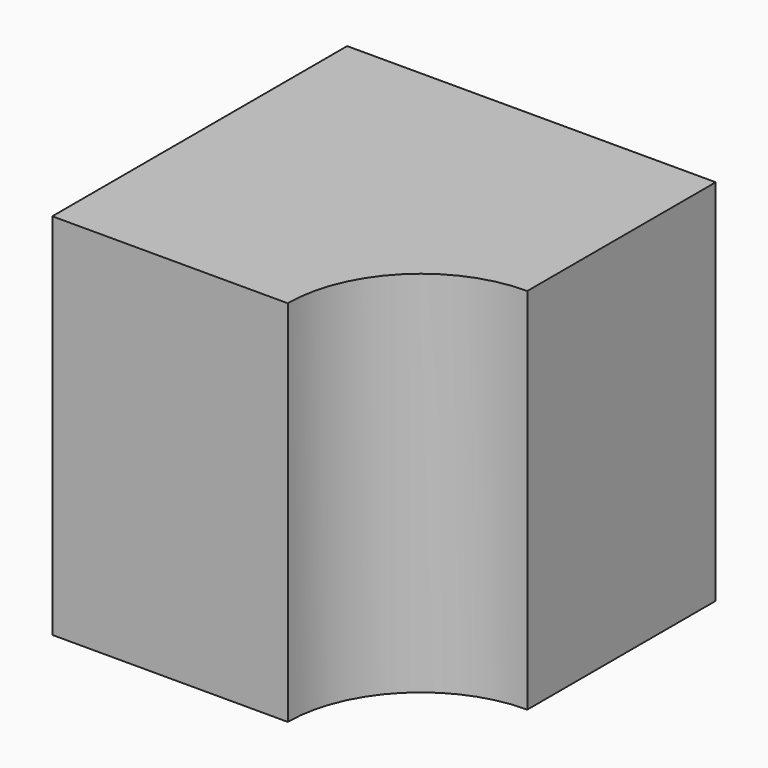
from build123d import *

# Parameters (mm, degrees)
F1_DEPTH = 2.778125


with BuildPart() as f1:
    # F0 (on Top) → F1 (new body)
    with BuildSketch(Plane.XY):
        with BuildLine():
            Line((-2.778125, 0), (-1.0033, 0))
            ThreePointArc((-1.0033, 0), (-0.70944, 0.70944), (0, 1.0033))
            Line((0, 1.0033), (0, 2.778125))
            Line((0, 2.778125), (-2.778125, 2.778125))
            Line((-2.778125, 2.778125), (-2.778125, 0))
        make_face()
    extrude(amount=F1_DEPTH)


solid = f1.part
